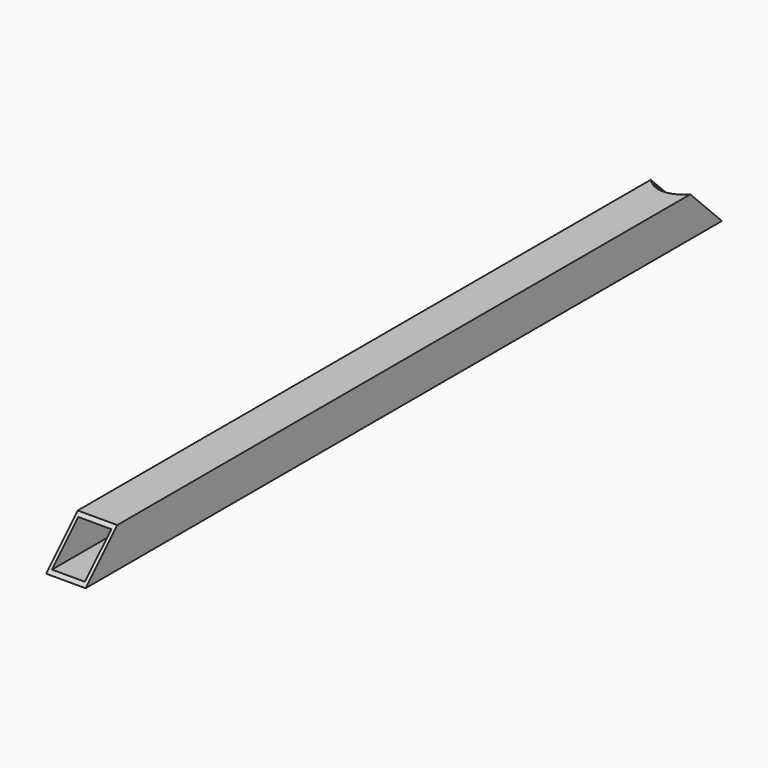
from build123d import *

# Parameters (mm, degrees)
F0_W     = 60
F0_H     = 60
F0_W_2   = 50
F0_H_2   = 50
F1_DEPTH = 1207
F3_DEPTH = 60.001
F5_R     = 49
F6_DEPTH = 118


with BuildPart() as f1:
    # F0 (on Front) → F1 (new body)
    with BuildSketch(Plane.XZ):
        Rectangle(F0_W, F0_H)
        Rectangle(F0_W_2, F0_H_2, mode=Mode.SUBTRACT)
    extrude(amount=F1_DEPTH)

    # F2 (on face) → F3 (cut, through all)
    with BuildSketch(Plane.YZ.offset(30)):
        Polygon((-1207, 30), (-1207, -30), (-1147, 30), align=None)
        Polygon((0, -30), (0, 30), (-60, 30), align=None)
    extrude(amount=-F3_DEPTH, mode=Mode.SUBTRACT)

    # F5 (on face) → F6 (cut, symmetric)
    with BuildSketch(Plane(origin=(0, -45, 45), x_dir=(-1, 0, 0), z_dir=(0, 0.7071067812, -0.7071067812))):
        with Locations((0, 17.5233952504)):
            Circle(F5_R)
    extrude(amount=F6_DEPTH, both=True, mode=Mode.SUBTRACT)


solid = f1.part
